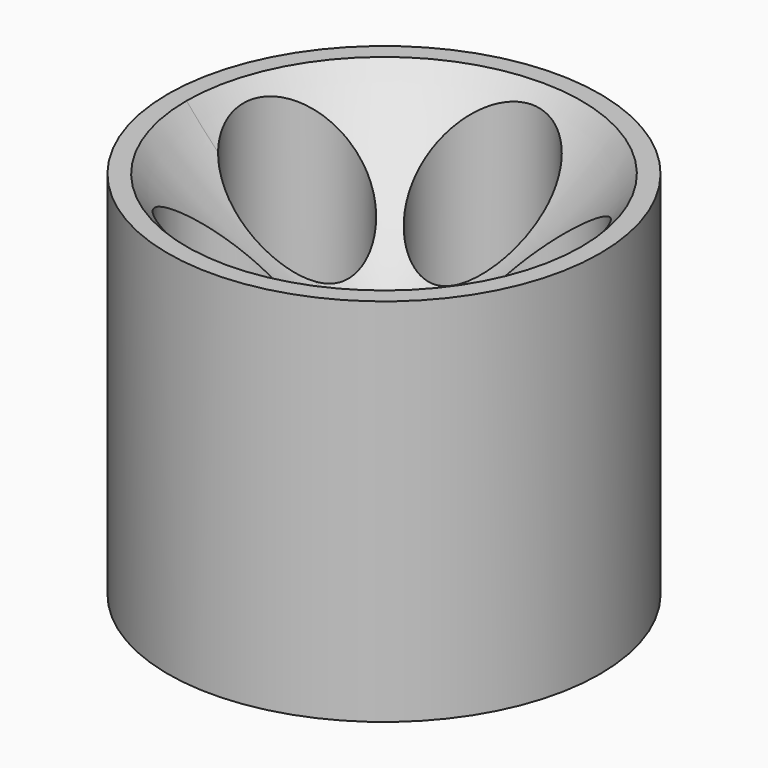
from build123d import *

# Parameters (mm, degrees)
REVOLUTION_ANGLE   = -360
SKETCH006_R        = 10
POCKET_DEPTH       = 261.517738
POLARPATTERN_COUNT = 5
SKETCH007_R        = 9
PAD_DEPTH          = 20
POCKET001_DEPTH    = 5
SKETCH009_R        = 2
POCKET002_DEPTH    = 37.001


with BuildPart() as part:
    # Sketch004 → Revolution (revolve, symmetric)
    with BuildSketch(Plane.XZ) as revolution_sk:
        with BuildLine():
            Line((0, 0), (0, 7))
            Line((0, 7), (5, 7))
            add(Edge.make_bspline(
                [(5, 7), (20.98773, 16.664236), (32, 30)],
                knots=[0, 0, 0, 1, 1, 1], degree=2))
            Line((32, 30), (35, 30))
            Line((35, 30), (35, -30))
            Line((35, -30), (32, -30))
            Line((32, -30), (32, 0))
            Line((32, 0), (0, 0))
        make_face()
    revolve(axis=Axis((0, 0, 0), (0, 0, 1)), revolution_arc=REVOLUTION_ANGLE / 2)
    revolve(revolution_sk.sketch, axis=Axis((0, 0, 0), (0, 0, -1)), revolution_arc=REVOLUTION_ANGLE / 2)

    # Sketch006 → Pocket (cut, through all)
    with BuildSketch(Plane.XY):
        with Locations((0, 20)):
            Circle(SKETCH006_R)
    pocket = extrude(amount=POCKET_DEPTH, mode=Mode.SUBTRACT)

    # PolarPattern: Pocket ×5 about axis
    polarpattern_axis = Axis((0, 0, 0), (0, 0, 1))
    for i in range(1, POLARPATTERN_COUNT):
        add(pocket.rotate(polarpattern_axis, i * 360 / POLARPATTERN_COUNT), mode=Mode.SUBTRACT)

    # Sketch007 → Pad (join)
    with BuildSketch(Plane.XY):
        Circle(SKETCH007_R)
    extrude(amount=-PAD_DEPTH)

    # Sketch008 (on Face14 of Pad) → Pocket001 (cut)
    with BuildSketch(Plane(origin=(0, 0, -20), x_dir=(1, 0, 0), z_dir=(0, 0, -1))):
        Polygon((6.495191, -3.75), (6.495191, 3.75), (0, 7.5), (-6.495191, 3.75), (-6.495191, -3.75), (0, -7.5), align=None)
    extrude(amount=-POCKET001_DEPTH, mode=Mode.SUBTRACT)

    # Sketch009 (on Face1 of Pocket001) → Pocket002 (cut, through all)
    with BuildSketch(Plane(origin=(0, 0, 7), x_dir=(-1, 0, 0), z_dir=(0, 0, 1))):
        Circle(SKETCH009_R)
    extrude(amount=-POCKET002_DEPTH, mode=Mode.SUBTRACT)


solid = part.part
